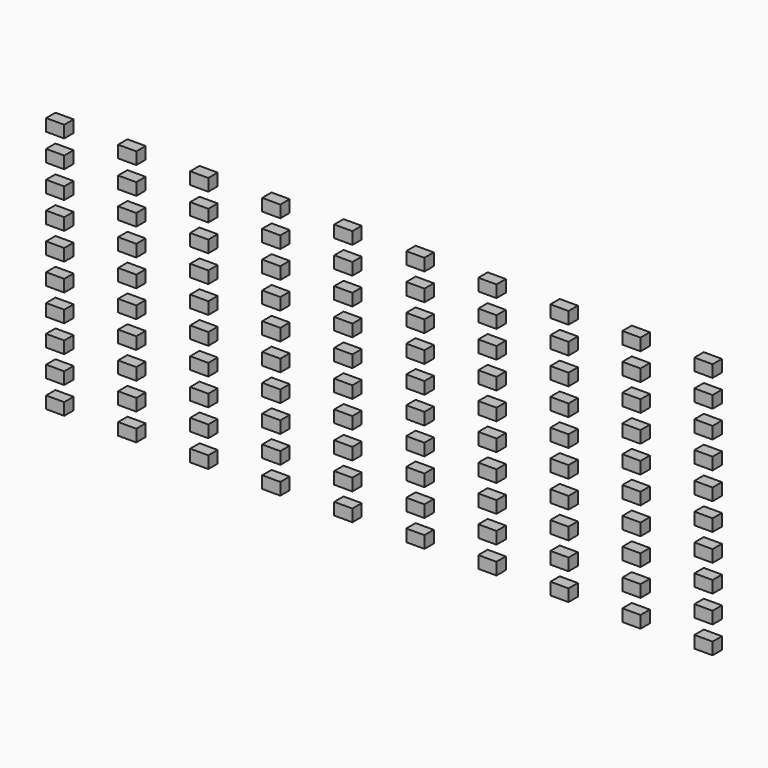
from build123d import *

# Parameters (mm, degrees)
F0_W     = 38.788408
F0_H     = 25.858944
F1_DEPTH = 25


with BuildPart() as f1:
    # F0 (on Front) → F1 (new body)
    with BuildSketch(Plane.XZ):
        with Locations((-157.121196, 17.426682)):
            Rectangle(F0_W, F0_H)
        with Locations((-157.121196, 75.426682)):
            Rectangle(F0_W, F0_H)
        with Locations((-157.121196, 133.426682)):
            Rectangle(F0_W, F0_H)
        with Locations((-157.121196, 191.426682)):
            Rectangle(F0_W, F0_H)
        with Locations((-157.121196, 249.426682)):
            Rectangle(F0_W, F0_H)
        with Locations((-157.121196, 307.426682)):
            Rectangle(F0_W, F0_H)
        with Locations((-157.121196, 365.426682)):
            Rectangle(F0_W, F0_H)
        with Locations((-157.121196, 423.426682)):
            Rectangle(F0_W, F0_H)
        with Locations((-157.121196, 481.426682)):
            Rectangle(F0_W, F0_H)
        with Locations((-157.121196, 539.426682)):
            Rectangle(F0_W, F0_H)
        with Locations((-3.121196, 17.426682)):
            Rectangle(F0_W, F0_H)
        with Locations((-3.121196, 75.426682)):
            Rectangle(F0_W, F0_H)
        with Locations((-3.121196, 133.426682)):
            Rectangle(F0_W, F0_H)
        with Locations((-3.121196, 191.426682)):
            Rectangle(F0_W, F0_H)
        with Locations((-3.121196, 249.426682)):
            Rectangle(F0_W, F0_H)
        with Locations((-3.121196, 307.426682)):
            Rectangle(F0_W, F0_H)
        with Locations((-3.121196, 365.426682)):
            Rectangle(F0_W, F0_H)
        with Locations((-3.121196, 423.426682)):
            Rectangle(F0_W, F0_H)
        with Locations((-3.121196, 481.426682)):
            Rectangle(F0_W, F0_H)
        with Locations((-3.121196, 539.426682)):
            Rectangle(F0_W, F0_H)
        with Locations((150.878804, 17.426682)):
            Rectangle(F0_W, F0_H)
        with Locations((150.878804, 75.426682)):
            Rectangle(F0_W, F0_H)
        with Locations((150.878804, 133.426682)):
            Rectangle(F0_W, F0_H)
        with Locations((150.878804, 191.426682)):
            Rectangle(F0_W, F0_H)
        with Locations((150.878804, 249.426682)):
            Rectangle(F0_W, F0_H)
        with Locations((150.878804, 307.426682)):
            Rectangle(F0_W, F0_H)
        with Locations((150.878804, 365.426682)):
            Rectangle(F0_W, F0_H)
        with Locations((150.878804, 423.426682)):
            Rectangle(F0_W, F0_H)
        with Locations((150.878804, 481.426682)):
            Rectangle(F0_W, F0_H)
        with Locations((150.878804, 539.426682)):
            Rectangle(F0_W, F0_H)
        with Locations((304.878804, 17.426682)):
            Rectangle(F0_W, F0_H)
        with Locations((304.878804, 75.426682)):
            Rectangle(F0_W, F0_H)
        with Locations((304.878804, 133.426682)):
            Rectangle(F0_W, F0_H)
        with Locations((304.878804, 191.426682)):
            Rectangle(F0_W, F0_H)
        with Locations((304.878804, 249.426682)):
            Rectangle(F0_W, F0_H)
        with Locations((304.878804, 307.426682)):
            Rectangle(F0_W, F0_H)
        with Locations((304.878804, 365.426682)):
            Rectangle(F0_W, F0_H)
        with Locations((304.878804, 423.426682)):
            Rectangle(F0_W, F0_H)
        with Locations((304.878804, 481.426682)):
            Rectangle(F0_W, F0_H)
        with Locations((304.878804, 539.426682)):
            Rectangle(F0_W, F0_H)
        with Locations((458.878804, 17.426682)):
            Rectangle(F0_W, F0_H)
        with Locations((458.878804, 75.426682)):
            Rectangle(F0_W, F0_H)
        with Locations((458.878804, 133.426682)):
            Rectangle(F0_W, F0_H)
        with Locations((458.878804, 191.426682)):
            Rectangle(F0_W, F0_H)
        with Locations((458.878804, 249.426682)):
            Rectangle(F0_W, F0_H)
        with Locations((458.878804, 307.426682)):
            Rectangle(F0_W, F0_H)
        with Locations((458.878804, 365.426682)):
            Rectangle(F0_W, F0_H)
        with Locations((458.878804, 423.426682)):
            Rectangle(F0_W, F0_H)
        with Locations((458.878804, 481.426682)):
            Rectangle(F0_W, F0_H)
        with Locations((458.878804, 539.426682)):
            Rectangle(F0_W, F0_H)
        with Locations((612.878804, 17.426682)):
            Rectangle(F0_W, F0_H)
        with Locations((612.878804, 75.426682)):
            Rectangle(F0_W, F0_H)
        with Locations((612.878804, 133.426682)):
            Rectangle(F0_W, F0_H)
        with Locations((612.878804, 191.426682)):
            Rectangle(F0_W, F0_H)
        with Locations((612.878804, 249.426682)):
            Rectangle(F0_W, F0_H)
        with Locations((612.878804, 307.426682)):
            Rectangle(F0_W, F0_H)
        with Locations((612.878804, 365.426682)):
            Rectangle(F0_W, F0_H)
        with Locations((612.878804, 423.426682)):
            Rectangle(F0_W, F0_H)
        with Locations((612.878804, 481.426682)):
            Rectangle(F0_W, F0_H)
        with Locations((612.878804, 539.426682)):
            Rectangle(F0_W, F0_H)
        with Locations((766.878804, 17.426682)):
            Rectangle(F0_W, F0_H)
        with Locations((766.878804, 75.426682)):
            Rectangle(F0_W, F0_H)
        with Locations((766.878804, 133.426682)):
            Rectangle(F0_W, F0_H)
        with Locations((766.878804, 191.426682)):
            Rectangle(F0_W, F0_H)
        with Locations((766.878804, 249.426682)):
            Rectangle(F0_W, F0_H)
        with Locations((766.878804, 307.426682)):
            Rectangle(F0_W, F0_H)
        with Locations((766.878804, 365.426682)):
            Rectangle(F0_W, F0_H)
        with Locations((766.878804, 423.426682)):
            Rectangle(F0_W, F0_H)
        with Locations((766.878804, 481.426682)):
            Rectangle(F0_W, F0_H)
        with Locations((766.878804, 539.426682)):
            Rectangle(F0_W, F0_H)
        with Locations((920.878804, 17.426682)):
            Rectangle(F0_W, F0_H)
        with Locations((920.878804, 75.426682)):
            Rectangle(F0_W, F0_H)
        with Locations((920.878804, 133.426682)):
            Rectangle(F0_W, F0_H)
        with Locations((920.878804, 191.426682)):
            Rectangle(F0_W, F0_H)
        with Locations((920.878804, 249.426682)):
            Rectangle(F0_W, F0_H)
        with Locations((920.878804, 307.426682)):
            Rectangle(F0_W, F0_H)
        with Locations((920.878804, 365.426682)):
            Rectangle(F0_W, F0_H)
        with Locations((920.878804, 423.426682)):
            Rectangle(F0_W, F0_H)
        with Locations((920.878804, 481.426682)):
            Rectangle(F0_W, F0_H)
        with Locations((920.878804, 539.426682)):
            Rectangle(F0_W, F0_H)
        with Locations((1074.878804, 17.426682)):
            Rectangle(F0_W, F0_H)
        with Locations((1074.878804, 75.426682)):
            Rectangle(F0_W, F0_H)
        with Locations((1074.878804, 133.426682)):
            Rectangle(F0_W, F0_H)
        with Locations((1074.878804, 191.426682)):
            Rectangle(F0_W, F0_H)
        with Locations((1074.878804, 249.426682)):
            Rectangle(F0_W, F0_H)
        with Locations((1074.878804, 307.426682)):
            Rectangle(F0_W, F0_H)
        with Locations((1074.878804, 365.426682)):
            Rectangle(F0_W, F0_H)
        with Locations((1074.878804, 423.426682)):
            Rectangle(F0_W, F0_H)
        with Locations((1074.878804, 481.426682)):
            Rectangle(F0_W, F0_H)
        with Locations((1074.878804, 539.426682)):
            Rectangle(F0_W, F0_H)
        with Locations((1228.878804, 17.426682)):
            Rectangle(F0_W, F0_H)
        with Locations((1228.878804, 75.426682)):
            Rectangle(F0_W, F0_H)
        with Locations((1228.878804, 133.426682)):
            Rectangle(F0_W, F0_H)
        with Locations((1228.878804, 191.426682)):
            Rectangle(F0_W, F0_H)
        with Locations((1228.878804, 249.426682)):
            Rectangle(F0_W, F0_H)
        with Locations((1228.878804, 307.426682)):
            Rectangle(F0_W, F0_H)
        with Locations((1228.878804, 365.426682)):
            Rectangle(F0_W, F0_H)
        with Locations((1228.878804, 423.426682)):
            Rectangle(F0_W, F0_H)
        with Locations((1228.878804, 481.426682)):
            Rectangle(F0_W, F0_H)
        with Locations((1228.878804, 539.426682)):
            Rectangle(F0_W, F0_H)
    extrude(amount=F1_DEPTH)


solid = f1.part
